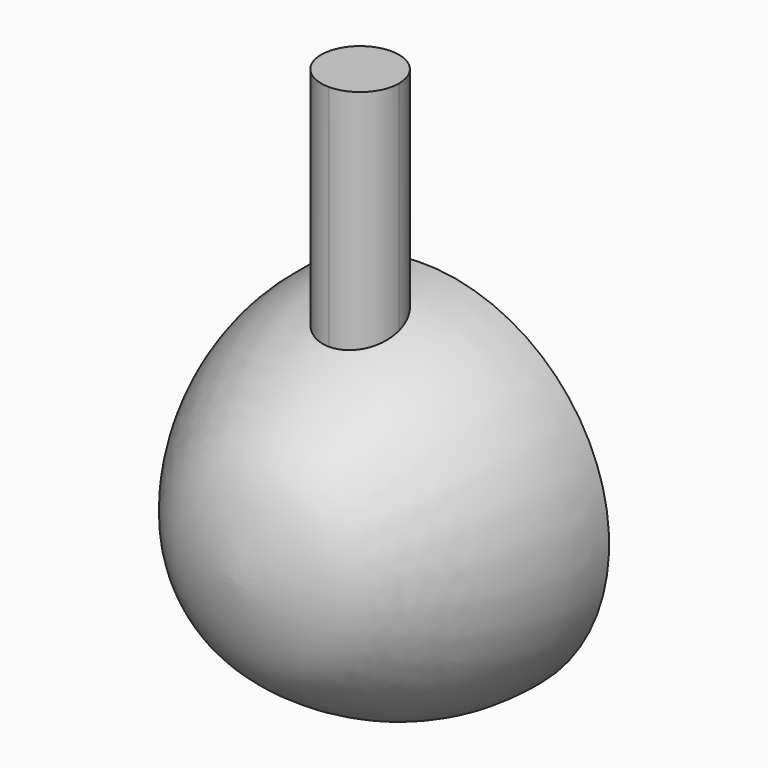
from build123d import *

# Parameters (mm, degrees)
F3_DEPTH = 250


with BuildPart() as f1:
    # F0 (on Top) → F1 (revolve)
    with BuildSketch(Plane.XY):
        with BuildLine():
            add(Edge.make_bspline(
                [(-120, 150), (-121.4758888106, 96.9986646922), (-79.6355678668, 32.7963142803), (-50.659501324, 9.1160815716), (-14.6855329059, 0), (0, 0)],
                knots=[0, 0, 0, 0, 0.4608969261, 0.7119730415, 1, 1, 1, 1], degree=3))
            Line((0, 0), (0, 150))
            Line((0, 150), (-120, 150))
        make_face()
    revolve(axis=Axis((0, 75, 0), (0, 1, 0)))

    # F2 (on Top) → F3 (join)
    with BuildSketch(Plane.XY):
        with BuildLine():
            ThreePointArc((0, 75), (17.6776695297, 82.3223304703), (25, 100))
            ThreePointArc((25, 100), (-17.6776695297, 117.6776695297), (0, 75))
        make_face()
    extrude(amount=F3_DEPTH)


solid = f1.part
